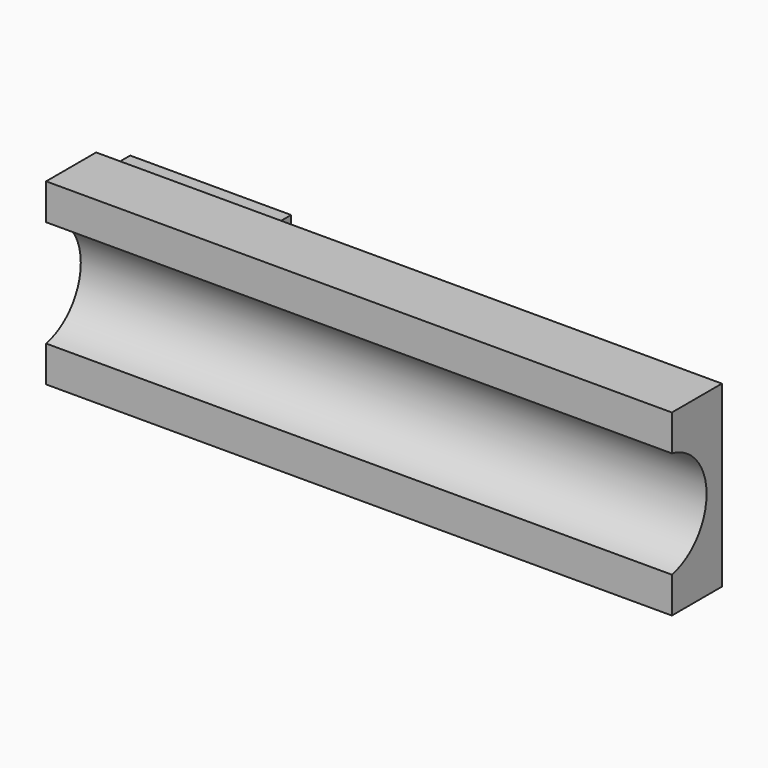
from build123d import *

# Parameters (mm, degrees)
F0_W     = 88.9
F0_H     = 25.4
F1_DEPTH = 8.89
F2_R     = 7.75
F3_DEPTH = 88.901
F4_W     = 7.62
F4_H     = 9.8552
F5_DEPTH = 25.0952
F6_W     = 5.08
F6_H     = 9.8552
F7_DEPTH = 15.24


with BuildPart() as f1:
    # F0 (on Front) → F1 (new body)
    with BuildSketch(Plane.XZ):
        with Locations((-44.45, 12.7)):
            Rectangle(F0_W, F0_H)
    extrude(amount=F1_DEPTH)

    # F2 (on face) → F3 (cut, through all)
    with BuildSketch(Plane(origin=(-88.9, 0, 0), x_dir=(0, -1, 0), z_dir=(-1, 0, 0))):
        with Locations((10.4775, 12.7)):
            Circle(F2_R)
    extrude(amount=-F3_DEPTH, mode=Mode.SUBTRACT)

    # F4 (on face) → F5 (join)
    with BuildSketch(Plane(origin=(0, 0, 0), x_dir=(-1, 0, 0), z_dir=(0, 1, 0))):
        with Locations((85.09, 4.9276)):
            Rectangle(F4_W, F4_H)
    extrude(amount=F5_DEPTH)

    # F6 (on face) → F7 (join)
    with BuildSketch(Plane(origin=(-88.9, 0, 0), x_dir=(0, -1, 0), z_dir=(-1, 0, 0))):
        with Locations((-22.5552, 4.9276)):
            Rectangle(F6_W, F6_H)
    extrude(amount=F7_DEPTH)


solid = f1.part
